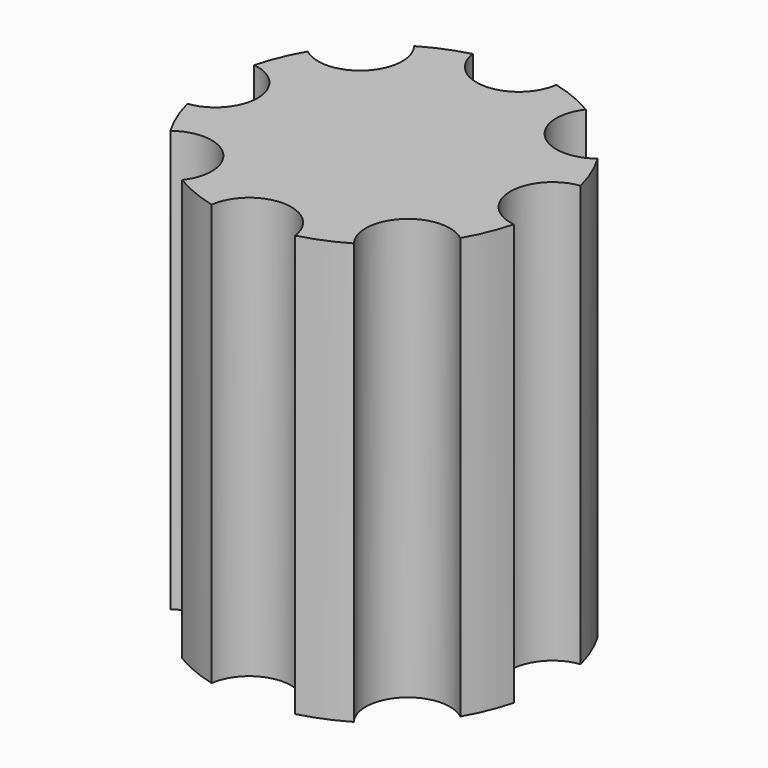
from build123d import *

# Parameters (mm, degrees)
CYLINDER001_R     = 0.5
CYLINDER001_DEPTH = 10
ARRAY_COUNT       = 8
CYLINDER_R        = 2
CYLINDER_DEPTH    = 5


with BuildPart() as array:
    # Cylinder001 → Cylinder001 (new body)
    with BuildSketch(Plane(origin=(2, 0, 0), x_dir=(1, 0, 0), z_dir=(0, 0, 1))):
        Circle(CYLINDER001_R)
    extrude(amount=CYLINDER001_DEPTH)

    # Array: Array ×8 about axis
    array_axis = Axis((0, 0, 0), (0, 0, 1))


with BuildPart() as array_1:
    add(array.part)
    for i in range(1, ARRAY_COUNT):
        add(array.part.rotate(array_axis, i * 360 / ARRAY_COUNT))


with BuildPart() as cut:
    # Cylinder → Cylinder (new body)
    with BuildSketch(Plane.XY):
        Circle(CYLINDER_R)
    extrude(amount=CYLINDER_DEPTH)

    # Cut: cut Array
    add(array_1.part, mode=Mode.SUBTRACT)


solid = cut.part
